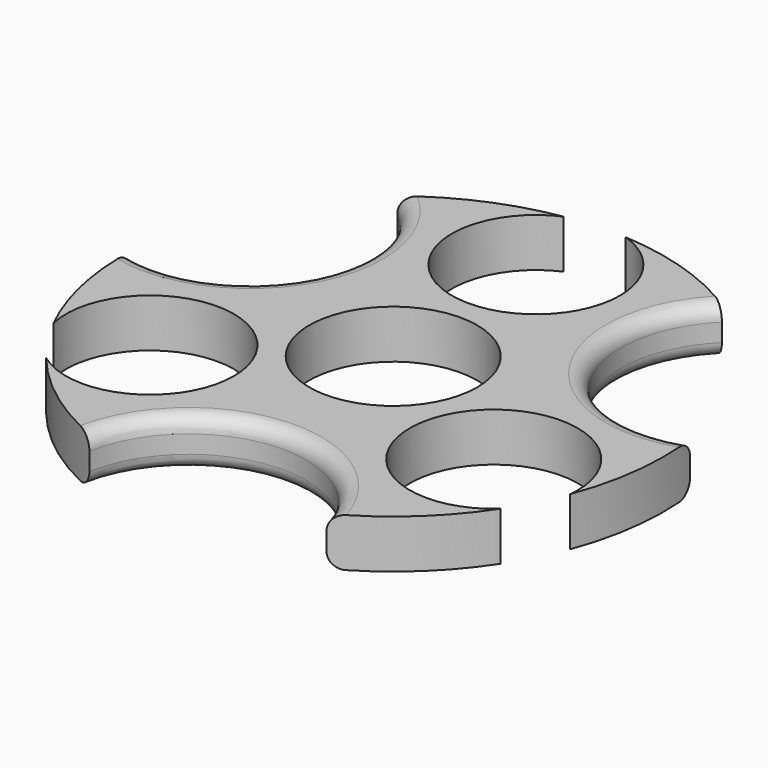
from build123d import *

# Parameters (mm, degrees)
F0_R     = 35.5
F1_DEPTH = 6.35
F2_R     = 11
F3_DEPTH = 45.4
F4_R     = 2


with BuildPart() as f1:
    # F0 (on Top) → F1 (new body)
    with BuildSketch(Plane.XY):
        Circle(F0_R)
    extrude(amount=F1_DEPTH)

    # F2 (on face) → F3 (cut)
    with BuildSketch(Plane.XY.offset(6.35)):
        with BuildLine():
            ThreePointArc((-35.4775348505, 1.2627434137), (-17.9359739533, 9.1519318989), (-21.842331384, 27.9850417136))
            ThreePointArc((-21.842331384, 27.9850417136), (-31.6213863215, 16.1349907687), (-35.4775348505, 1.2627434137))
        make_face()
        with BuildLine():
            ThreePointArc((-5.7104578794, 35.0377035607), (-1.8255507227, 35.4530304002), (2.0814687386, 35.4389261673))
            ThreePointArc((2.0814687386, 35.4389261673), (-1.8512627047, 35.9523688566), (-5.7104578794, 35.0377035607))
        make_face()
        with BuildLine():
            ThreePointArc((-5.7104578794, 35.0377035607), (-7.2991901005, 15.7562375394), (9.7144008995, 24.9669228171))
            ThreePointArc((9.7144008995, 24.9669228171), (7.6036569491, 31.4462072594), (2.0814687386, 35.4389261673))
            ThreePointArc((2.0814687386, 35.4389261673), (-1.8255507227, 35.4530304002), (-5.7104578794, 35.0377035607))
        make_face()
        Circle(F2_R)
        with BuildLine():
            ThreePointArc((35.2022114799, 4.58849724), (29.9665998499, 19.032942322), (19.1180348698, 29.9123844372))
            ThreePointArc((19.1180348698, 29.9123844372), (16.9973621306, 10.7956796793), (35.2022114799, 4.58849724))
        make_face()
        with BuildLine():
            ThreePointArc((29.6502759744, -19.5220678884), (32.0612961084, -16.3729438969), (33.1987703135, -12.5734501895))
            ThreePointArc((33.1987703135, -12.5734501895), (31.6160003291, -16.1455418984), (29.6502759744, -19.5220678884))
        make_face()
        with BuildLine():
            ThreePointArc((29.6502759744, -19.5220678884), (31.6160003291, -16.1455418984), (33.1987703135, -12.5734501895))
            ThreePointArc((33.1987703135, -12.5734501895), (33.2482719009, -11.9726798636), (33.2647889641, -11.3700999284))
            ThreePointArc((33.2647889641, -11.3700999284), (12.2089360139, -6.9114205899), (29.6502759744, -19.5220678884))
        make_face()
        with BuildLine():
            ThreePointArc((16.4372598805, -31.465321985), (0.9090375797, -20.1154336224), (-13.5321534944, -32.8196712629))
            ThreePointArc((-13.5321534944, -32.8196712629), (1.6026466455, -35.4638058269), (16.4372598805, -31.465321985))
        make_face()
        with BuildLine():
            ThreePointArc((-27.4883124341, -22.4642533712), (-29.7904496064, -19.3074885019), (-31.731744713, -15.9168582789))
            ThreePointArc((-31.731744713, -15.9168582789), (-30.2100334037, -19.5794249596), (-27.4883124341, -22.4642533712))
        make_face()
        with BuildLine():
            ThreePointArc((-9.9791898636, -13.5968228886), (-22.1457867643, -2.6588591078), (-31.731744713, -15.9168582789))
            ThreePointArc((-31.731744713, -15.9168582789), (-29.7904496064, -19.3074885019), (-27.4883124341, -22.4642533712))
            ThreePointArc((-27.4883124341, -22.4642533712), (-16.009297927, -23.4100881015), (-9.9791898636, -13.5968228886))
        make_face()
    extrude(amount=-F3_DEPTH, mode=Mode.SUBTRACT)

    # F4
    f4_edges = [f1.edges().sort_by_distance(p)[0] for p in [
        (-17.935974, 9.151932, 0),
        (-17.935974, 9.151932, 6.35),
        (16.997362, 10.79568, 0),
        (16.997362, 10.79568, 6.35),
        (0.909038, -20.115434, 0),
        (0.909038, -20.115434, 6.35),
    ]]
    fillet(f4_edges, radius=F4_R)


solid = f1.part
